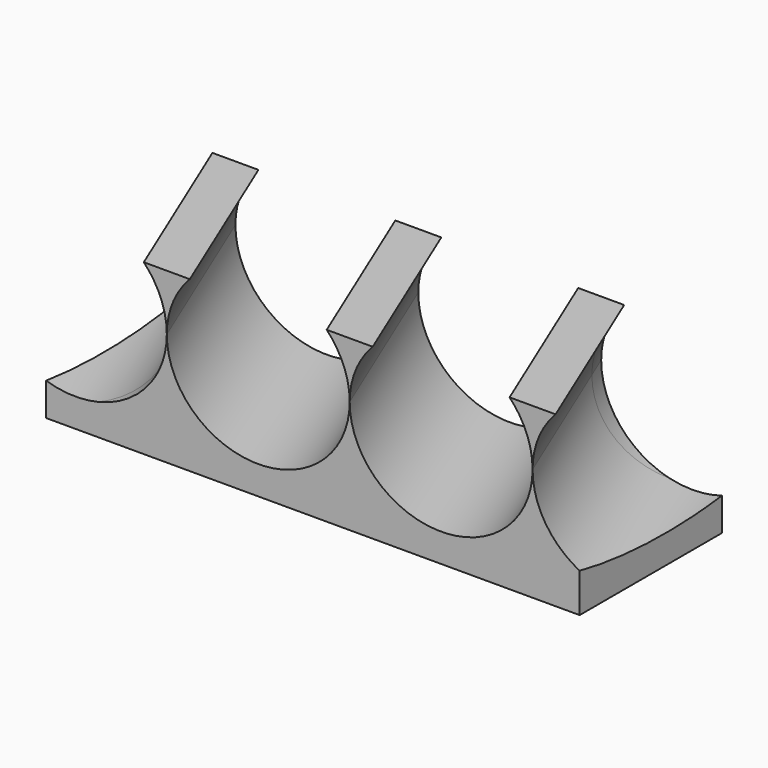
from build123d import *

# Parameters (mm, degrees)
F0_W     = 190.5
F0_H     = 60.325
F1_DEPTH = 31.75
F4_R     = 30.1625
F5_DEPTH = 88.9


with BuildPart() as f1:
    # F0 (on Front) → F1 (new body, symmetric)
    with BuildSketch(Plane.XZ):
        Rectangle(F0_W, F0_H)
    extrude(amount=F1_DEPTH, both=True)

    # F4 (on line) → F5 (cut, symmetric)
    with BuildSketch(Plane(origin=(0, 0, 0), x_dir=(0.9238795325, 0.3826834324, 0), z_dir=(0.3826834324, -0.9238795325, 0))):
        with Locations((-90.4875, 10.16)):
            Circle(F4_R)
        with BuildLine():
            ThreePointArc((0, 10.16), (-30.1625, 40.3225), (-60.325, 10.16))
            ThreePointArc((-60.325, 10.16), (-30.1625, -20.0025), (0, 10.16))
        make_face()
        with BuildLine():
            ThreePointArc((60.325, 10.16), (30.1625, 40.3225), (0, 10.16))
            ThreePointArc((0, 10.16), (30.1625, -20.0025), (60.325, 10.16))
        make_face()
        with BuildLine():
            ThreePointArc((120.65, 10.16), (90.4875, 40.3225), (60.325, 10.16))
            ThreePointArc((60.325, 10.16), (90.4875, -20.0025), (120.65, 10.16))
        make_face()
    extrude(amount=F5_DEPTH, both=True, mode=Mode.SUBTRACT)


solid = f1.part
